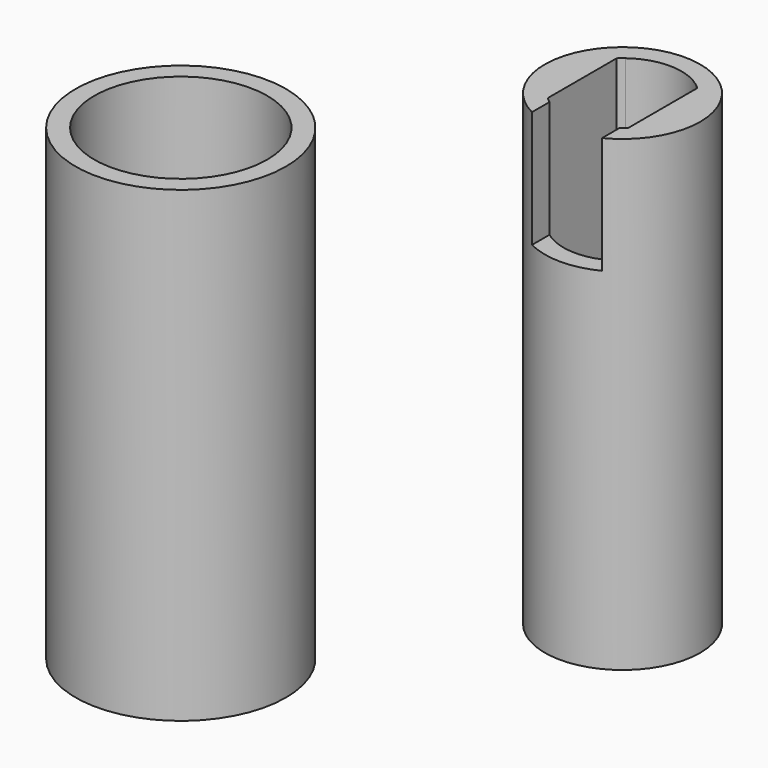
from build123d import *

# Parameters (mm, degrees)
F0_R     = 3.325
F1_DEPTH = 20
F0_R_2   = 4.5
F0_R_3   = 3.7
F2_DEPTH = 20
F4_DEPTH = 5


with BuildPart() as f1:
    # F0 (on Top) → F1 (new body)
    with BuildSketch(Plane.XY):
        Circle(F0_R)
        with BuildLine():
            ThreePointArc((1.725, 1.8439088915), (2.316381877, 1.0049875621), (2.525, 0))
            ThreePointArc((2.525, 0), (2.316381877, -1.0049875621), (1.725, -1.8439088915))
            ThreePointArc((1.725, -1.8439088915), (0, -2.525), (-1.725, -1.8439088915))
            ThreePointArc((-1.725, -1.8439088915), (-2.525, 0), (-1.725, 1.8439088915))
            ThreePointArc((-1.725, 1.8439088915), (0, 2.525), (1.725, 1.8439088915))
        make_face(mode=Mode.SUBTRACT)
        with BuildLine():
            Line((-1.725, 0), (-1.725, 1.8439088915))
            ThreePointArc((-1.725, 1.8439088915), (-2.525, 0), (-1.725, -1.8439088915))
            Line((-1.725, -1.8439088915), (-1.725, 0))
        make_face()
        with BuildLine():
            ThreePointArc((1.725, -1.8439088915), (2.316381877, -1.0049875621), (2.525, 0))
            ThreePointArc((2.525, 0), (2.316381877, 1.0049875621), (1.725, 1.8439088915))
            Line((1.725, 1.8439088915), (1.725, 0))
            Line((1.725, 0), (1.725, -1.8439088915))
        make_face()
    extrude(amount=F1_DEPTH)

    # F3 (on face) → F4 (cut)
    with BuildSketch(Plane.XY.offset(20)):
        with BuildLine():
            Line((-1.5, 2.0311634597), (-1.5, -2.0311634597))
            ThreePointArc((-1.5, -2.0311634597), (0, -2.525), (1.5, -2.0311634597))
            Line((1.5, -2.0311634597), (1.5, 2.0311634597))
            ThreePointArc((1.5, 2.0311634597), (0, 2.525), (-1.5, 2.0311634597))
        make_face()
        with BuildLine():
            Line((-1.5, -2.0311634597), (-1.5, -2.9674273369))
            ThreePointArc((-1.5, -2.9674273369), (0, -3.325), (1.5, -2.9674273369))
            Line((1.5, -2.9674273369), (1.5, -2.0311634597))
            ThreePointArc((1.5, -2.0311634597), (0, -2.525), (-1.5, -2.0311634597))
        make_face()
    extrude(amount=-F4_DEPTH, mode=Mode.SUBTRACT)


with BuildPart() as f2:
    # F0 (on Top) → F2 (new body)
    with BuildSketch(Plane.XY):
        with Locations((-9.9579216912, -11.1761782318)):
            Circle(F0_R_2)
        with Locations((-9.9579216912, -11.1761782318)):
            Circle(F0_R_3, mode=Mode.SUBTRACT)
    extrude(amount=F2_DEPTH)


solid = Compound([f1.part, f2.part])
